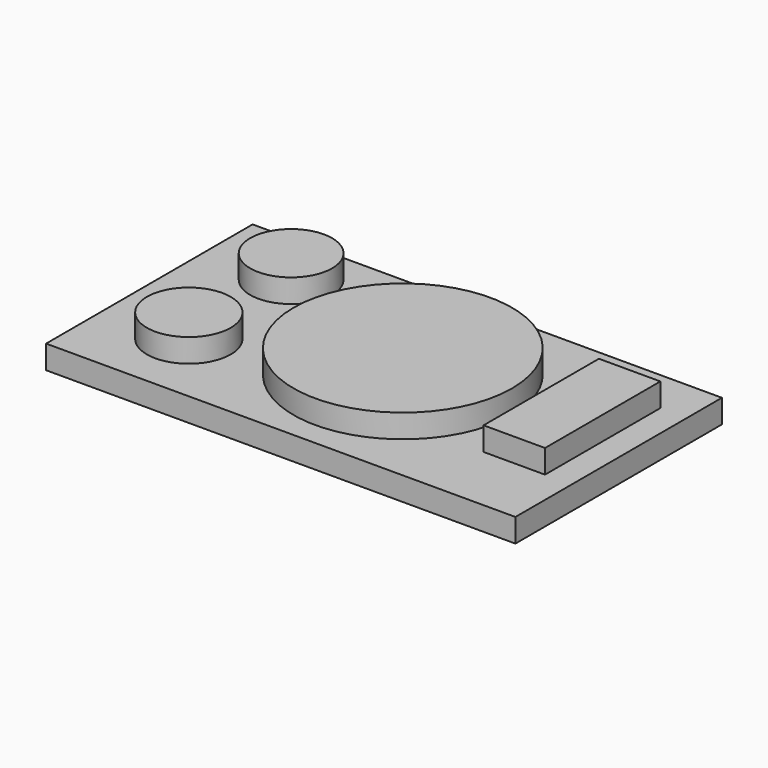
from build123d import *

# Parameters (mm, degrees)
F0_W     = 254
F0_H     = 139.7
F1_DEPTH = 12.7
F2_R     = 22.156791
F2_R_2   = 22.69355
F2_R_3   = 59.134775
F2_W     = 33.248223
F2_H     = 78.026086
F3_DEPTH = 12.7


with BuildPart() as f1:
    # F0 (on Top) → F1 (new body)
    with BuildSketch(Plane.XY):
        with Locations((3.791939, -2.102413)):
            Rectangle(F0_W, F0_H)
    extrude(amount=F1_DEPTH)

    # F2 (on face) → F3 (join)
    with BuildSketch(Plane.XY.offset(12.7)):
        with Locations((-78.758061, 38.266217)):
            Circle(F2_R)
        with Locations((-78.758061, -30.959498)):
            Circle(F2_R_2)
        with Locations((12.287973, 0)):
            Circle(F2_R_3)
        with Locations((99.749218, 5.104106)):
            Rectangle(F2_W, F2_H)
    extrude(amount=F3_DEPTH)


solid = f1.part
